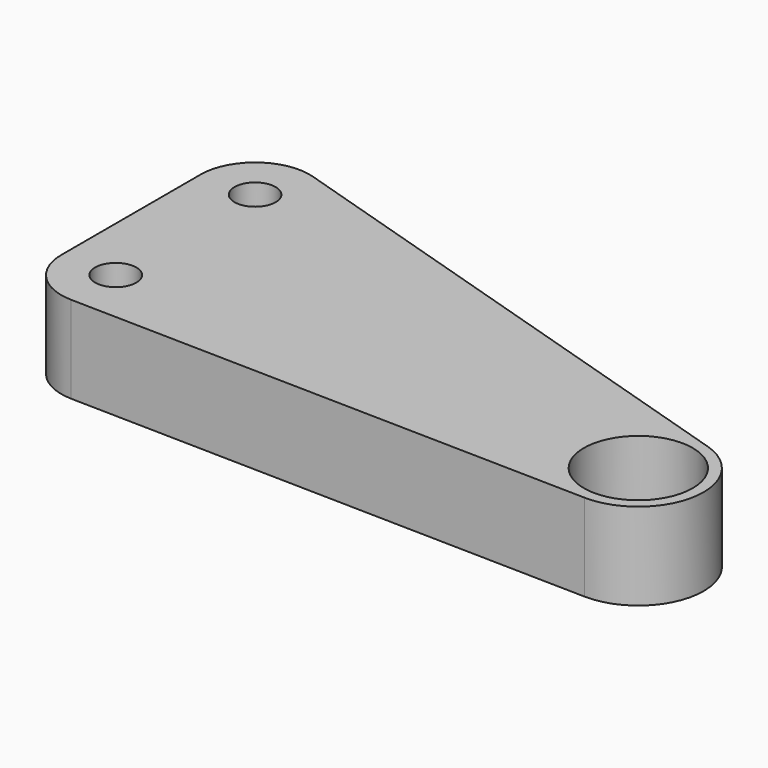
from build123d import *

# Parameters (mm, degrees)
F1_R     = 6
F2_DEPTH = 25.4
F3_R     = 15.875
F4_DEPTH = 19.05


with BuildPart() as f2:
    # F1 (on Top) → F2 (new body)
    with BuildSketch(Plane.XY):
        with BuildLine():
            ThreePointArc((-15.875, -50.8), (-11.341648, -61.907774), (-0.330729, -66.671555))
            Line((-0.330729, -66.671555), (152.003125, -69.845865))
            ThreePointArc((152.003125, -69.845865), (171.202382, -53.861525), (158.065775, -32.612051))
            Line((158.065775, -32.612051), (4.721479, 15.156624))
            ThreePointArc((4.721479, 15.156624), (-9.409095, 12.786108), (-15.875, 0))
            Line((-15.875, 0), (-15.875, -50.8))
        make_face()
        with Locations((0, -50.8)):
            Circle(F1_R, mode=Mode.SUBTRACT)
        with Locations((152.4, -50.8)):
            Circle(F1_R, mode=Mode.SUBTRACT)
        Circle(F1_R, mode=Mode.SUBTRACT)
    extrude(amount=F2_DEPTH)

    # F3 (on face) → F4 (cut)
    with BuildSketch(Plane.XY.offset(25.4)):
        with Locations((152.4, -50.8)):
            Circle(F3_R)
    extrude(amount=-F4_DEPTH, mode=Mode.SUBTRACT)


solid = f2.part
